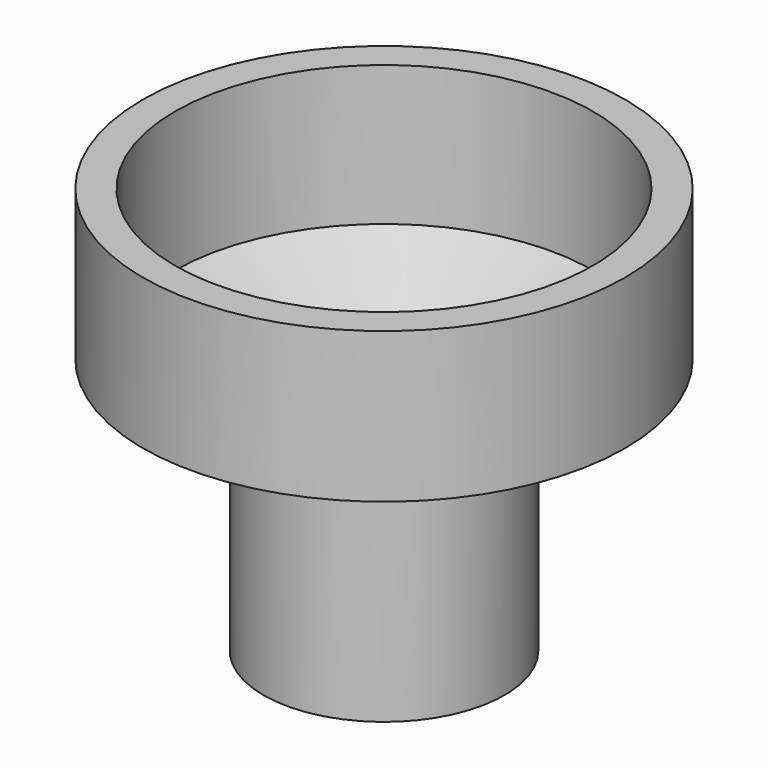
from build123d import *


with BuildPart() as f1:
    # F0 (on Front) → F1 (revolve)
    with BuildSketch(Plane.XZ):
        Polygon((-38.1, 30.283641), (-38.1, 6.538162), (-33.02, 8.164555), (-33.02, 30.283641), align=None)
        Polygon((-38.1, 6.538162), (-19.05, -1.626394), (-13.97, 0), (-33.02, 8.164555), align=None)
        Polygon((-13.97, 0), (-19.05, -1.626394), (-19.05, -34.010854), (-13.97, -34.010854), align=None)
    revolve(axis=Axis((0, 0, 5.711099), (0, 0, -1)))


solid = f1.part
